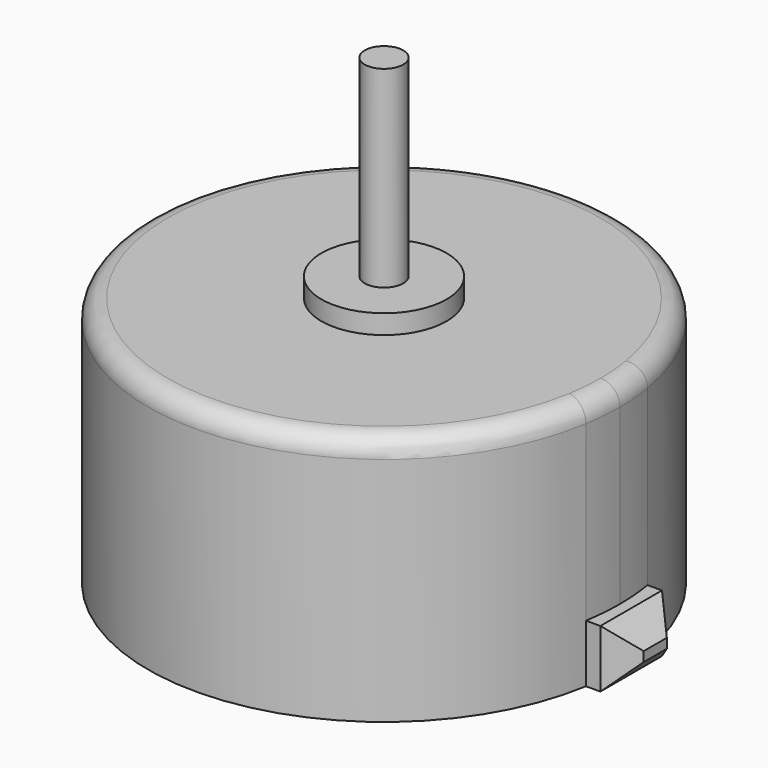
from build123d import *

# Parameters (mm, degrees)
F0_R     = 3.25
F1_DEPTH = 13
F0_R_2   = 1
F2_DEPTH = 14
F3_DEPTH = 24
F4_DEPTH = 3
F5_R     = 1
F6_SIZE  = 1.25


with BuildPart() as f1:
    # F0 (on Top) → F1 (new body)
    with BuildSketch(Plane.XY):
        with BuildLine():
            ThreePointArc((12.085632, -2), (12.208839, -1.003371), (12.25, 0))
            ThreePointArc((12.25, 0), (12.208839, 1.003371), (12.085632, 2))
            ThreePointArc((12.085632, 2), (-12.25, 0), (12.085632, -2))
        make_face()
        Circle(F0_R, mode=Mode.SUBTRACT)
    extrude(amount=F1_DEPTH)

    # F0 (on Top) → F2 (join)
    with BuildSketch(Plane.XY):
        Circle(F0_R)
        Circle(F0_R_2, mode=Mode.SUBTRACT)
    extrude(amount=F2_DEPTH)

    # F0 (on Top) → F3 (join)
    with BuildSketch(Plane.XY):
        Circle(F0_R_2)
    extrude(amount=F3_DEPTH)

    # F0 (on Top) → F4 (join)
    with BuildSketch(Plane.XY):
        with BuildLine():
            ThreePointArc((12.085632, 2), (12.208839, 1.003371), (12.25, 0))
            ThreePointArc((12.25, 0), (12.208839, -1.003371), (12.085632, -2))
            Line((12.085632, -2), (14.085632, -2))
            Line((14.085632, -2), (14.085632, 2))
            Line((14.085632, 2), (12.085632, 2))
        make_face()
    extrude(amount=F4_DEPTH)

    # F5
    f5_edges = [f1.edges().sort_by_distance(p)[0] for p in [
        (-12.085632, 2, 13),
    ]]
    fillet(f5_edges, radius=F5_R)

    # F6
    f6_edges = [f1.edges().sort_by_distance(p)[0] for p in [
        (14.085632, -2, 1.5),
        (14.085632, 2, 1.5),
        (14.085632, 0, 0),
        (14.085632, 0, 3),
    ]]
    chamfer(f6_edges, length=F6_SIZE)


solid = f1.part
